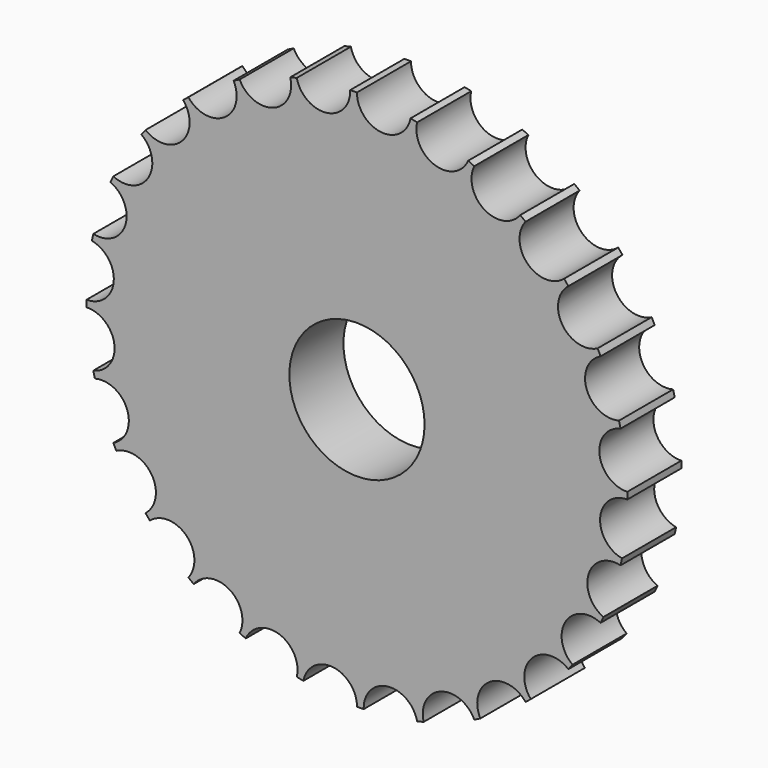
from build123d import *

# Parameters (mm, degrees)
F0_R     = 25.4
F0_R_2   = 6.35
F1_DEPTH = 6.35
F3_DEPTH = 6.351


with BuildPart() as f1:
    # F0 (on Front) → F1 (new body)
    with BuildSketch(Plane.XZ):
        Circle(F0_R)
        Circle(F0_R_2, mode=Mode.SUBTRACT)
    extrude(amount=F1_DEPTH)

    # F2 (on face) → F3 (cut, through all)
    with BuildSketch(Plane.XZ.offset(6.35)):
        with BuildLine():
            ThreePointArc((-5.6520317225, 24.7631689694), (-2.8552519313, 22.7872201957), (-0.6324557251, 25.3921247586))
            ThreePointArc((-0.6324557251, 25.3921247586), (-3.157941096, 25.2029245929), (-5.6520317225, 24.7631689694))
        make_face()
        with BuildLine():
            ThreePointArc((5.0336805768, 24.8962258154), (2.5294133993, 25.2737426563), (0, 25.4))
            ThreePointArc((0, 25.4), (2.286968716, 22.8512503362), (5.0336805768, 24.8962258154))
        make_face()
        with BuildLine():
            ThreePointArc((24.8962258154, -5.0336805768), (25.2737426563, -2.5294133993), (25.4, 0))
            ThreePointArc((25.4, 0), (22.8512503362, -2.286968716), (24.8962258154, -5.0336805768))
        make_face()
        with BuildLine():
            ThreePointArc((23.1519261522, -10.4474071158), (24.0772297289, -8.0899325449), (24.7631689694, -5.6520317225))
            ThreePointArc((24.7631689694, -5.6520317225), (21.7694233664, -7.3145112024), (23.1519261522, -10.4474071158))
        make_face()
        with BuildLine():
            ThreePointArc((20.2466922377, -15.3372570374), (21.6733839652, -13.244788692), (22.8846092447, -11.0206469736))
            ThreePointArc((22.8846092447, -11.0206469736), (19.5959866078, -11.9752735544), (20.2466922377, -15.3372570374))
        make_face()
        with BuildLine():
            ThreePointArc((16.3262046316, -19.4580328483), (18.1827442293, -17.7354958288), (19.8585196547, -15.8366409672))
            ThreePointArc((19.8585196547, -15.8366409672), (16.439925255, -16.035545686), (16.3262046316, -19.4580328483))
        make_face()
        with BuildLine():
            ThreePointArc((11.587052953, -22.6031016426), (13.7803457732, -21.3368711476), (15.8366409672, -19.8585196547))
            ThreePointArc((15.8366409672, -19.8585196547), (12.4594974028, -19.2917285982), (11.587052953, -22.6031016426))
        make_face()
        with BuildLine():
            ThreePointArc((6.266878056, -24.6147565381), (8.6869432384, -23.8683266521), (11.0206469736, -22.8846092447))
            ThreePointArc((11.0206469736, -22.8846092447), (7.8542983244, -21.5805436833), (6.266878056, -24.6147565381))
        make_face()
        with BuildLine():
            ThreePointArc((0.6324557251, -25.3921247586), (3.157941096, -25.2029245929), (5.6520317225, -24.7631689694))
            ThreePointArc((5.6520317225, -24.7631689694), (2.8552519313, -22.7872201957), (0.6324557251, -25.3921247586))
        make_face()
        with BuildLine():
            ThreePointArc((0, -25.4), (-2.286968716, -22.8512503362), (-5.0336805768, -24.8962258154))
            ThreePointArc((-5.0336805768, -24.8962258154), (-2.5294133993, -25.2737426563), (0, -25.4))
        make_face()
        with BuildLine():
            ThreePointArc((-5.6520317225, -24.7631689694), (-7.3145112024, -21.7694233664), (-10.4474071158, -23.1519261522))
            ThreePointArc((-10.4474071158, -23.1519261522), (-8.0899325449, -24.0772297289), (-5.6520317225, -24.7631689694))
        make_face()
        with BuildLine():
            ThreePointArc((-11.0206469736, -22.8846092447), (-11.9752735544, -19.5959866078), (-15.3372570374, -20.2466922377))
            ThreePointArc((-15.3372570374, -20.2466922377), (-13.244788692, -21.6733839652), (-11.0206469736, -22.8846092447))
        make_face()
        with BuildLine():
            ThreePointArc((-15.8366409672, -19.8585196547), (-16.035545686, -16.439925255), (-19.4580328483, -16.3262046316))
            ThreePointArc((-19.4580328483, -16.3262046316), (-17.7354958288, -18.1827442293), (-15.8366409672, -19.8585196547))
        make_face()
        with BuildLine():
            ThreePointArc((-19.8585196547, -15.8366409672), (-19.2917285982, -12.4594974028), (-22.6031016426, -11.587052953))
            ThreePointArc((-22.6031016426, -11.587052953), (-21.3368711476, -13.7803457732), (-19.8585196547, -15.8366409672))
        make_face()
        with BuildLine():
            ThreePointArc((-22.8846092447, -11.0206469736), (-21.5805436833, -7.8542983244), (-24.6147565381, -6.266878056))
            ThreePointArc((-24.6147565381, -6.266878056), (-23.8683266521, -8.6869432384), (-22.8846092447, -11.0206469736))
        make_face()
        with BuildLine():
            ThreePointArc((-24.7631689694, -5.6520317225), (-22.7872201957, -2.8552519313), (-25.3921247586, -0.6324557251))
            ThreePointArc((-25.3921247586, -0.6324557251), (-25.2029245929, -3.157941096), (-24.7631689694, -5.6520317225))
        make_face()
        with BuildLine():
            ThreePointArc((-25.4, 0), (-22.8512503362, 2.286968716), (-24.8962258154, 5.0336805768))
            ThreePointArc((-24.8962258154, 5.0336805768), (-25.2737426563, 2.5294133993), (-25.4, 0))
        make_face()
        with BuildLine():
            ThreePointArc((-24.7631689694, 5.6520317225), (-21.7694233664, 7.3145112024), (-23.1519261522, 10.4474071158))
            ThreePointArc((-23.1519261522, 10.4474071158), (-24.0772297289, 8.0899325449), (-24.7631689694, 5.6520317225))
        make_face()
        with BuildLine():
            ThreePointArc((-22.8846092447, 11.0206469736), (-19.5959866078, 11.9752735544), (-20.2466922377, 15.3372570374))
            ThreePointArc((-20.2466922377, 15.3372570374), (-21.6733839652, 13.244788692), (-22.8846092447, 11.0206469736))
        make_face()
        with BuildLine():
            ThreePointArc((-19.8585196547, 15.8366409672), (-16.439925255, 16.035545686), (-16.3262046316, 19.4580328483))
            ThreePointArc((-16.3262046316, 19.4580328483), (-18.1827442293, 17.7354958288), (-19.8585196547, 15.8366409672))
        make_face()
        with BuildLine():
            ThreePointArc((-15.8366409672, 19.8585196547), (-12.4594974028, 19.2917285982), (-11.587052953, 22.6031016426))
            ThreePointArc((-11.587052953, 22.6031016426), (-13.7803457732, 21.3368711476), (-15.8366409672, 19.8585196547))
        make_face()
        with BuildLine():
            ThreePointArc((-11.0206469736, 22.8846092447), (-7.8542983244, 21.5805436833), (-6.266878056, 24.6147565381))
            ThreePointArc((-6.266878056, 24.6147565381), (-8.6869432384, 23.8683266521), (-11.0206469736, 22.8846092447))
        make_face()
        with BuildLine():
            ThreePointArc((10.4474071158, 23.1519261522), (8.0899325449, 24.0772297289), (5.6520317225, 24.7631689694))
            ThreePointArc((5.6520317225, 24.7631689694), (7.3145112024, 21.7694233664), (10.4474071158, 23.1519261522))
        make_face()
        with BuildLine():
            ThreePointArc((15.3372570374, 20.2466922377), (13.244788692, 21.6733839652), (11.0206469736, 22.8846092447))
            ThreePointArc((11.0206469736, 22.8846092447), (11.9752735544, 19.5959866078), (15.3372570374, 20.2466922377))
        make_face()
        with BuildLine():
            ThreePointArc((19.4580328483, 16.3262046316), (17.7354958288, 18.1827442293), (15.8366409672, 19.8585196547))
            ThreePointArc((15.8366409672, 19.8585196547), (16.035545686, 16.439925255), (19.4580328483, 16.3262046316))
        make_face()
        with BuildLine():
            ThreePointArc((22.6031016426, 11.587052953), (21.3368711476, 13.7803457732), (19.8585196547, 15.8366409672))
            ThreePointArc((19.8585196547, 15.8366409672), (19.2917285982, 12.4594974028), (22.6031016426, 11.587052953))
        make_face()
        with BuildLine():
            ThreePointArc((24.6147565381, 6.266878056), (23.8683266521, 8.6869432384), (22.8846092447, 11.0206469736))
            ThreePointArc((22.8846092447, 11.0206469736), (21.5805436833, 7.8542983244), (24.6147565381, 6.266878056))
        make_face()
        with BuildLine():
            ThreePointArc((25.3921247586, 0.6324557251), (25.2029245929, 3.157941096), (24.7631689694, 5.6520317225))
            ThreePointArc((24.7631689694, 5.6520317225), (22.7872201957, 2.8552519313), (25.3921247586, 0.6324557251))
        make_face()
    extrude(amount=-F3_DEPTH, mode=Mode.SUBTRACT)


solid = f1.part
